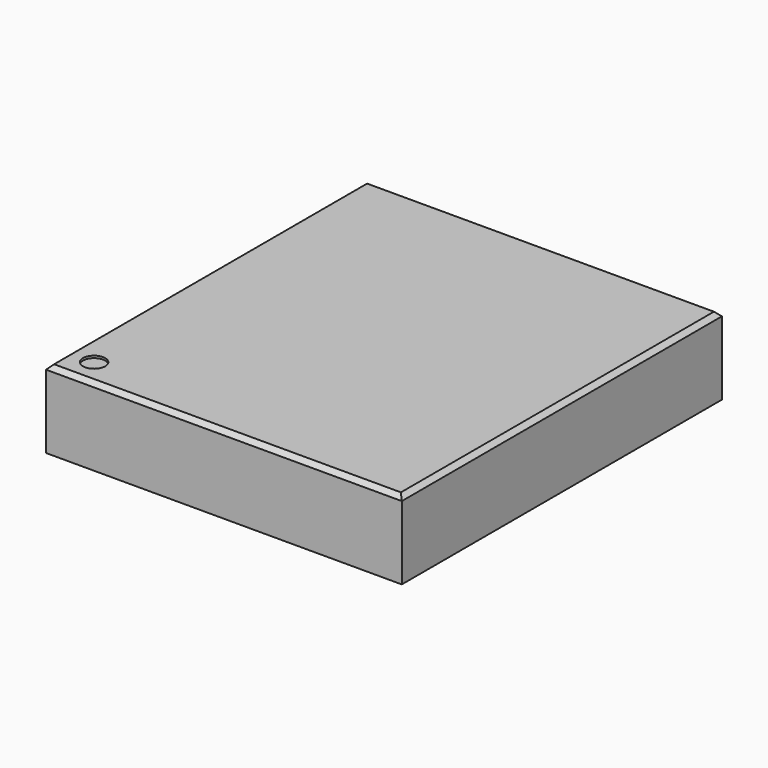
from build123d import *

# Parameters (mm, degrees)
SKETCH001_W  = 16
SKETCH001_H  = 18
PAD001_DEPTH = 3.5
CHAMFER_SIZE = 0.2
SKETCH002_R  = 0.5
POCKET_DEPTH = 0.1


with BuildPart() as part:
    # Sketch001 (on Face1 of CopyPad) → Pad001 (new body)
    with BuildSketch(Plane.XY.offset(1.6)):
        with Locations((0, 14.25)):
            Rectangle(SKETCH001_W, SKETCH001_H)
    extrude(amount=PAD001_DEPTH)

    # Chamfer
    chamfer_edges = [part.edges().sort_by_distance(p)[0] for p in [
        (0, 23.25, 5.1),
        (8, 14.25, 5.1),
        (0, 5.25, 5.1),
        (-8, 14.25, 5.1),
    ]]
    chamfer(chamfer_edges, length=CHAMFER_SIZE)

    # Sketch002 (on Face8 of Chamfer) → Pocket (cut)
    with BuildSketch(Plane.XY.offset(5.1)):
        with Locations((-6.8, 6.45)):
            Circle(SKETCH002_R)
    extrude(amount=-POCKET_DEPTH, mode=Mode.SUBTRACT)


solid = part.part
